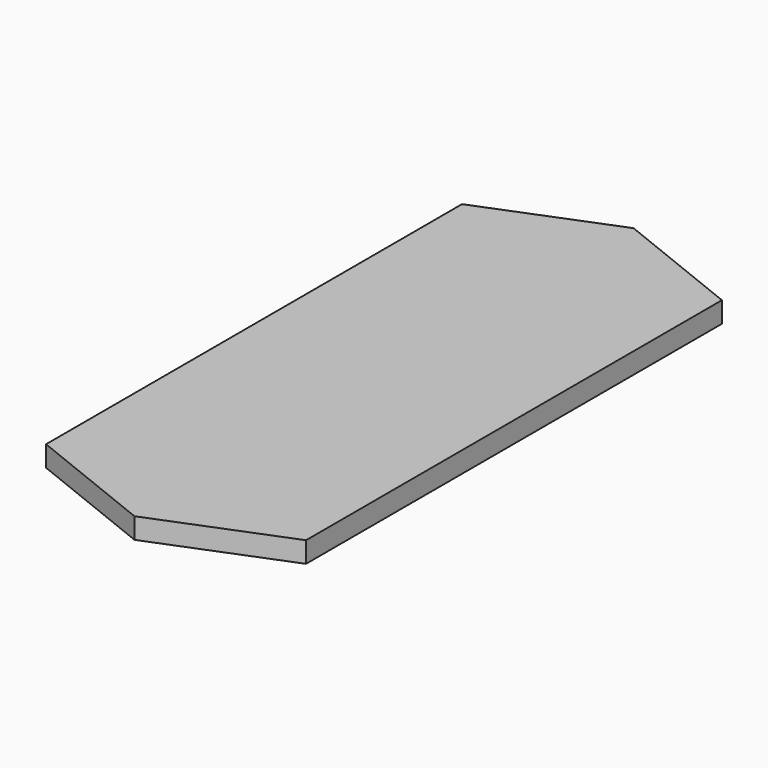
from build123d import *

# Parameters (mm, degrees)
F1_DEPTH = 5.08


with BuildPart() as f1:
    # F0 (on Top) → F1 (new body)
    with BuildSketch(Plane.XY):
        Polygon((-31.75, -12.7), (0, 0), (-63.5, 0), align=None)
        Polygon((-63.5, 0), (0, 0), (0, 127), (-31.75, 139.7), (-63.5, 127), align=None)
    extrude(amount=F1_DEPTH)


solid = f1.part
